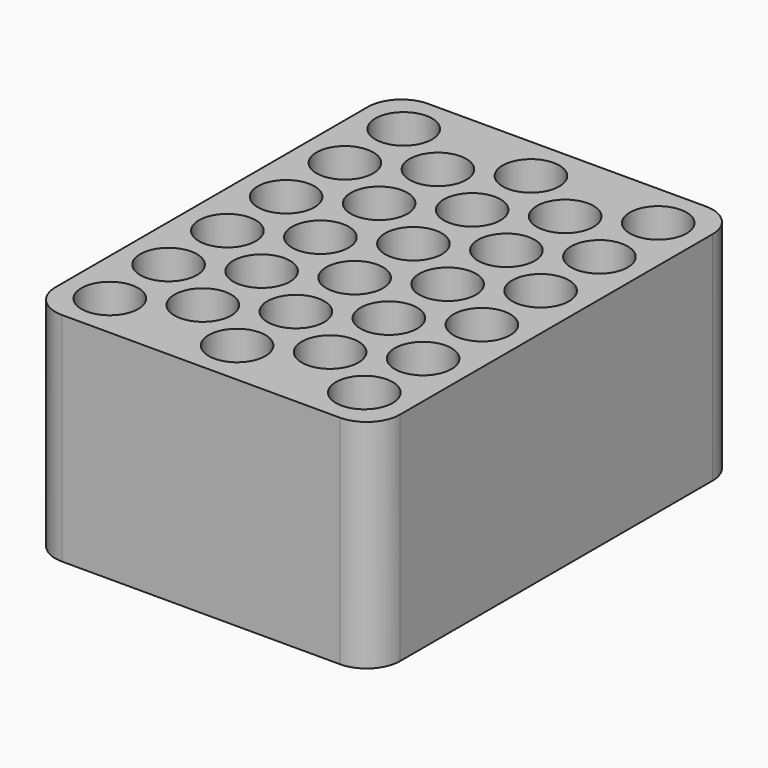
from build123d import *

# Parameters (mm, degrees)
F0_W     = 65.532
F0_H     = 86.995
F1_DEPTH = 41.275
F2_R     = 5.3975
F3_DEPTH = 38.1
F4_R     = 6.35


with BuildPart() as f1:
    # F0 (on Top) → F1 (new body)
    with BuildSketch(Plane.XY):
        Rectangle(F0_W, F0_H)
    extrude(amount=F1_DEPTH)

    # F2 (on face) → F3 (cut)
    with BuildSketch(Plane.XY.offset(41.275)):
        with Locations((-24.1935, 34.925)):
            Circle(F2_R)
        with Locations((-24.1935, 20.955)):
            Circle(F2_R)
        with Locations((-24.1935, 6.985)):
            Circle(F2_R)
        with Locations((-24.1935, -6.985)):
            Circle(F2_R)
        with Locations((-24.1935, -20.955)):
            Circle(F2_R)
        with Locations((-24.1935, -34.925)):
            Circle(F2_R)
        with Locations((-12.095125, 27.94)):
            Circle(F2_R)
        with Locations((-12.095125, 13.97)):
            Circle(F2_R)
        with Locations((-12.095125, 0)):
            Circle(F2_R)
        with Locations((-12.095125, -13.97)):
            Circle(F2_R)
        with Locations((-12.095125, -27.94)):
            Circle(F2_R)
        with Locations((12.101625, 0)):
            Circle(F2_R)
        with Locations((12.101625, 13.97)):
            Circle(F2_R)
        with Locations((12.101625, -13.97)):
            Circle(F2_R)
        with Locations((0.00325, 6.985)):
            Circle(F2_R)
        with Locations((0.00325, 20.955)):
            Circle(F2_R)
        with Locations((0.00325, 34.925)):
            Circle(F2_R)
        with Locations((12.101625, -27.94)):
            Circle(F2_R)
        with Locations((12.101625, 27.94)):
            Circle(F2_R)
        with Locations((0.00325, -6.985)):
            Circle(F2_R)
        with Locations((0.00325, -20.955)):
            Circle(F2_R)
        with Locations((0.00325, -34.925)):
            Circle(F2_R)
        with Locations((24.2, 6.985)):
            Circle(F2_R)
        with Locations((24.2, 20.955)):
            Circle(F2_R)
        with Locations((24.2, 34.925)):
            Circle(F2_R)
        with Locations((24.2, -6.985)):
            Circle(F2_R)
        with Locations((24.2, -20.955)):
            Circle(F2_R)
        with Locations((24.2, -34.925)):
            Circle(F2_R)
    extrude(amount=-F3_DEPTH, mode=Mode.SUBTRACT)

    # F4
    f4_edges = [f1.edges().sort_by_distance(p)[0] for p in [
        (-32.766, -43.4975, 20.6375),
        (32.766, -43.4975, 20.6375),
        (32.766, 43.4975, 20.6375),
        (-32.766, 43.4975, 20.6375),
    ]]
    fillet(f4_edges, radius=F4_R)


solid = f1.part
